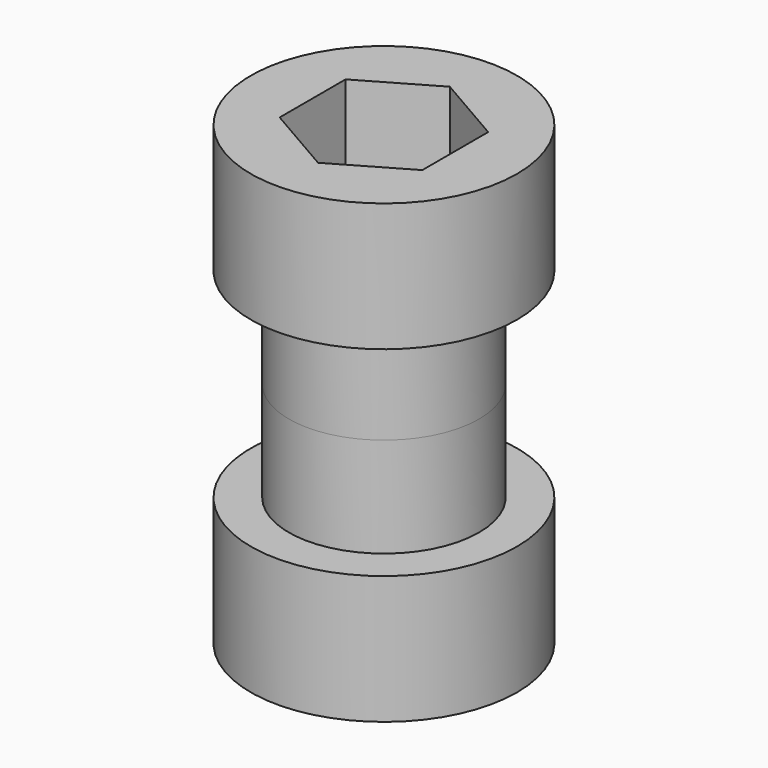
from build123d import *

# Parameters (mm, degrees)
F3_R     = 2.25
F4_DEPTH = 4


with BuildPart() as f1:
    # F0 (on Front) → F1 (revolve)
    with BuildSketch(Plane.XZ):
        Polygon((5, 0), (2.25, 0), (2.25, -10), (4.25, -12), (7, -12), (7, -5.25), (5, -5.25), align=None)
    revolve(axis=Axis((0, 0, -0.502397), (0, 0, -1)))


with BuildPart() as f2:
    # F0 (on Front) → F2 (revolve)
    with BuildSketch(Plane.XZ):
        Polygon((7, 12), (2.25, 12), (2.25, 0), (5, 0), (5, 5.25), (7, 5.25), align=None)
    revolve(axis=Axis((0, 0, -0.502397), (0, 0, -1)))

    # F3 (on face) → F4 (cut)
    with BuildSketch(Plane.XY.offset(12)):
        Polygon((-3.75, 2.165064), (-3.75, -2.165064), (0, -4.330127), (3.75, -2.165064), (3.75, 2.165064), (0, 4.330127), align=None)
        Circle(F3_R, mode=Mode.SUBTRACT)
    extrude(amount=-F4_DEPTH, mode=Mode.SUBTRACT)


solid = Compound([f1.part, f2.part])
